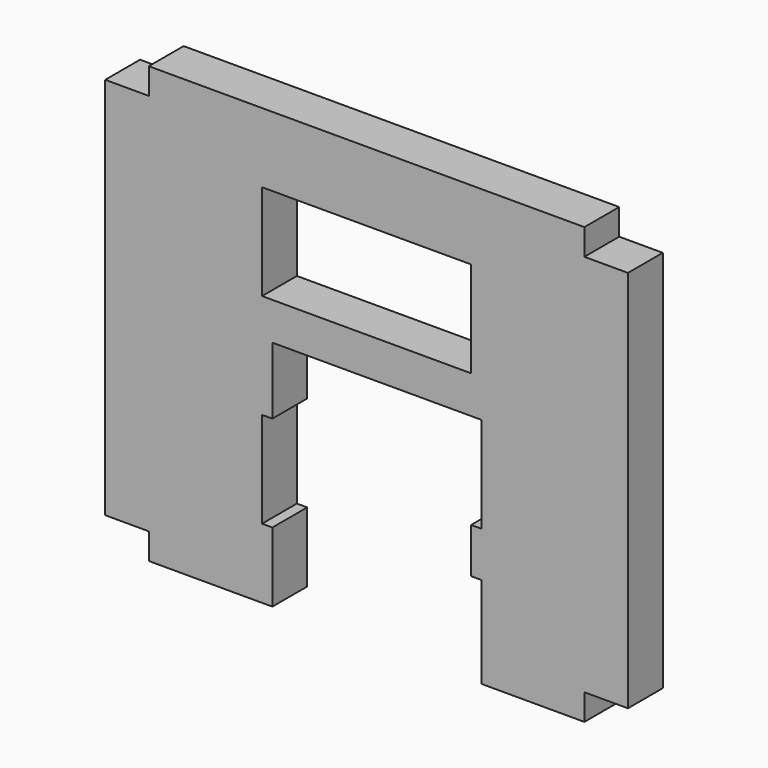
from build123d import *

# Parameters (mm, degrees)
F1_W     = 24
F1_H     = 11
F2_DEPTH = 5


with BuildPart() as f2:
    # F1 (on face) → F2 (new body)
    with BuildSketch(Plane.XZ):
        Polygon((-4.942675, 15.304768), (-4.942675, 22.984039), (19.057325, 22.984039), (19.057325, 11.984039), (17.873291, 11.984039), (17.873291, 6.802615), (19.057325, 6.802615), (19.057325, -3.695232), (30.870639, -3.695232), (30.870639, -0.695232), (35.870639, -0.695232), (35.870639, 43.304768), (30.870639, 43.304768), (30.870639, 46.304768), (-19.129361, 46.304768), (-19.129361, 43.304768), (-24.129361, 43.304768), (-24.129361, -0.695232), (-19.129361, -0.695232), (-19.129361, -3.695232), (-4.942675, -3.695232), (-4.942675, 4.304768), (-6.126709, 4.304768), (-6.126709, 15.304768), align=None)
        with Locations((5.873291, 32.804768)):
            Rectangle(F1_W, F1_H, mode=Mode.SUBTRACT)
    extrude(amount=F2_DEPTH)


solid = f2.part
